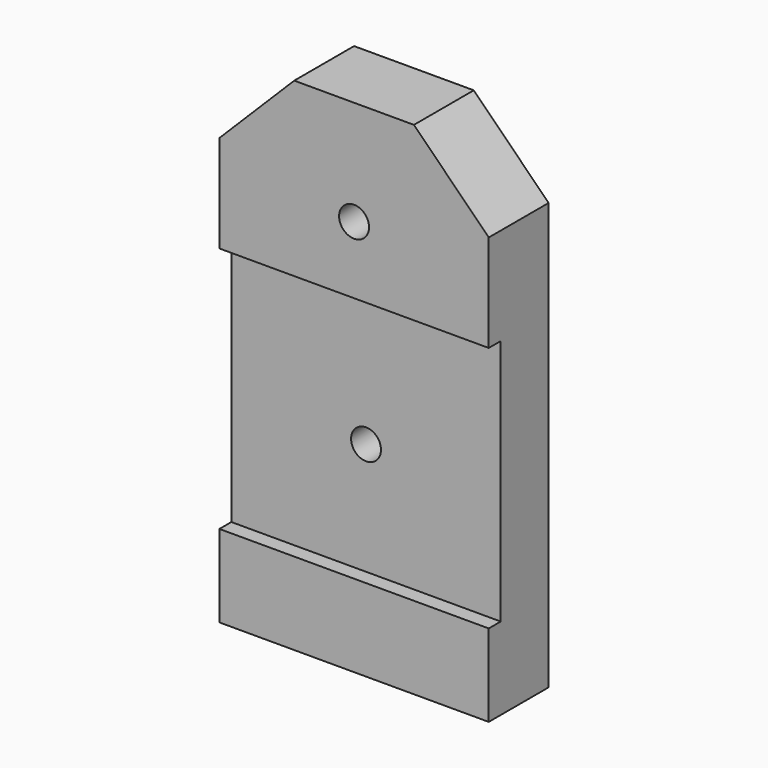
from build123d import *

# Parameters (mm, degrees)
F1_DEPTH = 5
F2_W     = 18
F2_H     = 16.5
F3_DEPTH = 1
F4_R     = 1
F5_DEPTH = 5.001
F6_R     = 1
F7_DEPTH = 4.001


with BuildPart() as f1:
    # F0 (on Front) → F1 (new body)
    with BuildSketch(Plane.XZ):
        Polygon((0, 28.5), (0, 0), (18, 0), (18, 28.5), (13, 33.5), (5, 33.5), align=None)
    extrude(amount=F1_DEPTH)

    # F2 (on face) → F3 (cut)
    with BuildSketch(Plane.XZ.offset(5)):
        with Locations((9, 13.75)):
            Rectangle(F2_W, F2_H)
    extrude(amount=-F3_DEPTH, mode=Mode.SUBTRACT)

    # F4 (on face) → F5 (cut, through all)
    with BuildSketch(Plane.XZ.offset(5)):
        with Locations((9, 26.5)):
            Circle(F4_R)
    extrude(amount=-F5_DEPTH, mode=Mode.SUBTRACT)

    # F6 (on face) → F7 (cut, through all)
    with BuildSketch(Plane.XZ.offset(4)):
        with Locations((9, 13)):
            Circle(F6_R)
    extrude(amount=-F7_DEPTH, mode=Mode.SUBTRACT)


solid = f1.part
